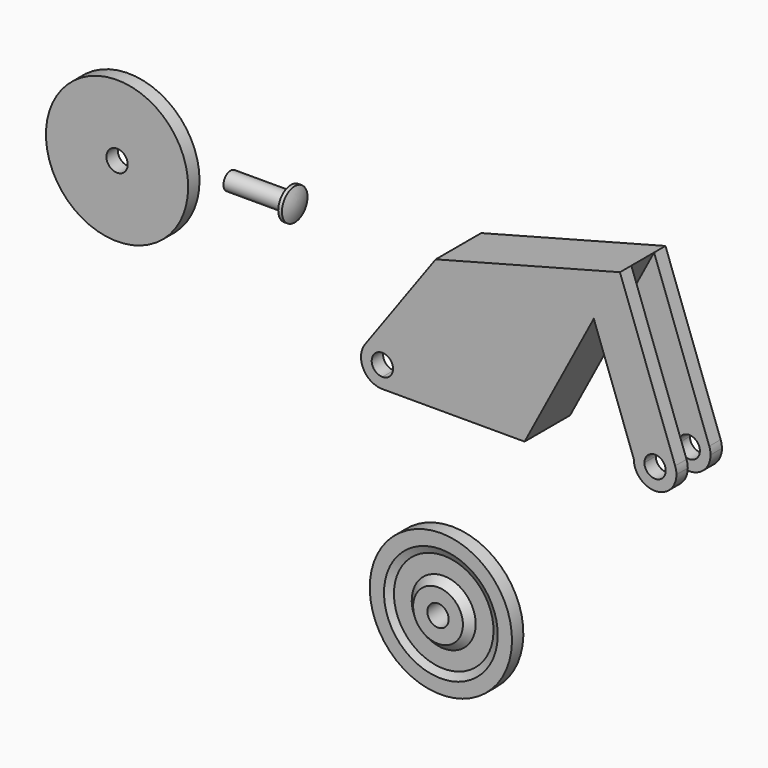
from build123d import *

# Parameters (mm, degrees)
F0_R      = 10
F0_R_2    = 1.5
F1_DEPTH  = 1
F4_DEPTH  = 4
F5_W      = 2
F5_H      = 22.3271135618
F6_DEPTH  = 25
F7_W      = 2
F7_H      = 28.6618866032
F8_DEPTH  = 25
F10_DEPTH = 8
F11_W     = 0.5
F11_H     = 2


with BuildPart() as f1:
    # F0 (on Front) → F1 (new body, symmetric)
    with BuildSketch(Plane.XZ):
        with Locations((-45.535646379, 41.2954837084)):
            Circle(F0_R)
        with Locations((-45.535646379, 41.2954837084)):
            Circle(F0_R_2, mode=Mode.SUBTRACT)
    extrude(amount=F1_DEPTH, both=True)


with BuildPart() as f2:
    # F0 (on Front) → F2 (revolve)
    with BuildSketch(Plane.XZ):
        Polygon((-21.8709991276, 44.595195502), (-30.3709991276, 44.595195502), (-30.3709991276, 43.345195502), (-26.3709991276, 43.345195502), (-21.8709991276, 43.345195502), align=None)
        with BuildLine():
            Line((-21.8709991276, 45.595195502), (-21.8709991276, 44.595195502))
            Line((-21.8709991276, 44.595195502), (-21.8709991276, 43.345195502))
            Line((-21.8709991276, 43.345195502), (-20.8709991276, 43.345195502))
            ThreePointArc((-20.8709991276, 43.345195502), (-20.9926660977, 44.4956449007), (-21.3522841527, 45.595195502))
            Line((-21.3522841527, 45.595195502), (-21.8709991276, 45.595195502))
        make_face()
    revolve(axis=Axis((-24.1209991276, 0, 43.345195502), (-1, 0, 0)))


with BuildPart() as f4:
    # F3 (on Front) → F4 (new body, symmetric)
    with BuildSketch(Plane.XZ):
        Polygon((27.5828548965, 52.4833389268), (1.6723101108, 45.6523098871), (14.1723101108, 27.1523098871), align=None)
    extrude(amount=F4_DEPTH, both=True)

    # F5 (on face) → F6 (join)
    with BuildSketch(Plane(origin=(22.3258671952, 0, 15.0850454022), x_dir=(0, -1, 0), z_dir=(-0.8285889687, 0, -0.5598574113))):
        with Locations((3, 25.7271883774)):
            Rectangle(F5_W, F5_H)
        with Locations((-3, 25.7271883774)):
            Rectangle(F5_W, F5_H)
    extrude(amount=F6_DEPTH)

    # F7 (on face) → F8 (join)
    with BuildSketch(Plane(origin=(-0.1581237587, 0, 0.0837125781), x_dir=(0, 1, 0), z_dir=(0.8837879163, 0, -0.4678877204))):
        with Locations((3, 44.9588765516)):
            Rectangle(F7_W, F7_H)
        with Locations((-3, 44.9588765516)):
            Rectangle(F7_W, F7_H)
    extrude(amount=F8_DEPTH)

    # F9 (on face) → F10 (cut)
    with BuildSketch(Plane.XZ.offset(4)):
        with BuildLine():
            Line((-6.5424141065, 13.1558746052), (14.1723101108, 27.1523098871))
            Line((14.1723101108, 27.1523098871), (-5.8276898892, 27.1523098871))
            ThreePointArc((-5.8276898892, 27.1523098871), (-8.4989781715, 28.786945865), (-8.2592104981, 31.9094972785))
            Line((-8.2592104981, 31.9094972785), (1.6723101108, 45.6523098871))
            Line((1.6723101108, 45.6523098871), (-19.0424141065, 31.6558746052))
            Line((-19.0424141065, 31.6558746052), (-6.5424141065, 13.1558746052))
        make_face()
        with BuildLine():
            Line((23.9056109098, 45.5374336186), (14.1723101108, 27.1523098871))
            Line((14.1723101108, 27.1523098871), (36.2670080195, 15.4551168766))
            Line((36.2670080195, 15.4551168766), (49.6775528052, 40.7861459163))
            Line((49.6775528052, 40.7861459163), (27.5828548965, 52.4833389268))
            Line((27.5828548965, 52.4833389268), (35.3435232626, 31.0335764831))
            ThreePointArc((35.3435232626, 31.0335764831), (35.4774088483, 30.5310275346), (35.5224889809, 30.0129073001))
            ThreePointArc((35.5224889809, 30.0129073001), (32.5224889809, 27.0129073001), (29.5224889809, 30.0129073001))
            Line((29.5224889809, 30.0129073001), (25.7300195237, 40.4949386271))
            Line((25.7300195237, 40.4949386271), (23.9056109098, 45.5374336186))
        make_face()
        with BuildLine():
            ThreePointArc((-4.3276898892, 30.1523098871), (-6.888350061, 31.2129700589), (-5.8276898892, 28.6523098871))
            ThreePointArc((-5.8276898892, 28.6523098871), (-4.7670297174, 29.0916497153), (-4.3276898892, 30.1523098871))
        make_face()
        with BuildLine():
            ThreePointArc((34.0224889809, 30.0129073001), (33.3860674859, 31.2393787289), (32.0168460932, 31.4251131173))
            Line((32.0168460932, 31.4251131173), (32.5224889809, 30.0129073001))
            Line((32.5224889809, 30.0129073001), (31.0224889809, 30.0129073001))
            ThreePointArc((31.0224889809, 30.0129073001), (32.5224889809, 28.5129073001), (34.0224889809, 30.0129073001))
        make_face()
        with BuildLine():
            Line((32.5224889809, 30.0129073001), (32.0168460932, 31.4251131173))
            ThreePointArc((32.0168460932, 31.4251131173), (31.2960175521, 30.8764858051), (31.0224889809, 30.0129073001))
            Line((31.0224889809, 30.0129073001), (32.5224889809, 30.0129073001))
        make_face()
    extrude(amount=-F10_DEPTH, mode=Mode.SUBTRACT)


with BuildPart() as f12:
    # F11 (on Right) → F12 (revolve)
    with BuildSketch(Plane.YZ):
        Polygon((-1, 1.5), (0, 1.5), (1, 1.5), (1, 3.5), (0.5, 3.5), (0.5, 4.5), (0.5, 7), (0.5, 8), (1, 8), (1, 10), (-1, 10), (-1, 8), (-0.5, 8), (-0.5, 7), (-0.5, 4.5), (-0.5, 3.5), (-1, 3.5), align=None)
        with Locations((1.25, 2.5)):
            Rectangle(F11_W, F11_H)
        Polygon((1, 4), (1, 3.5), (1.5, 3.5), align=None)
        Polygon((0.5, 3.5), (1, 3.5), (1, 4), (0.5, 4.5), align=None)
        Polygon((-1, 4), (-1, 3.5), (-0.5, 3.5), (-0.5, 4.5), align=None)
        Polygon((-1.5, 3.5), (-1, 3.5), (-1, 4), align=None)
        with Locations((-1.25, 2.5)):
            Rectangle(F11_W, F11_H)
        Polygon((0.5, 7), (1, 8), (0.5, 8), align=None)
        Polygon((-0.5, 8), (-1, 8), (-0.5, 7), align=None)
    revolve(axis=Axis((0, 0.5, 0), (0, 1, 0)))


solid = Compound([f1.part, f2.part, f4.part, f12.part])
